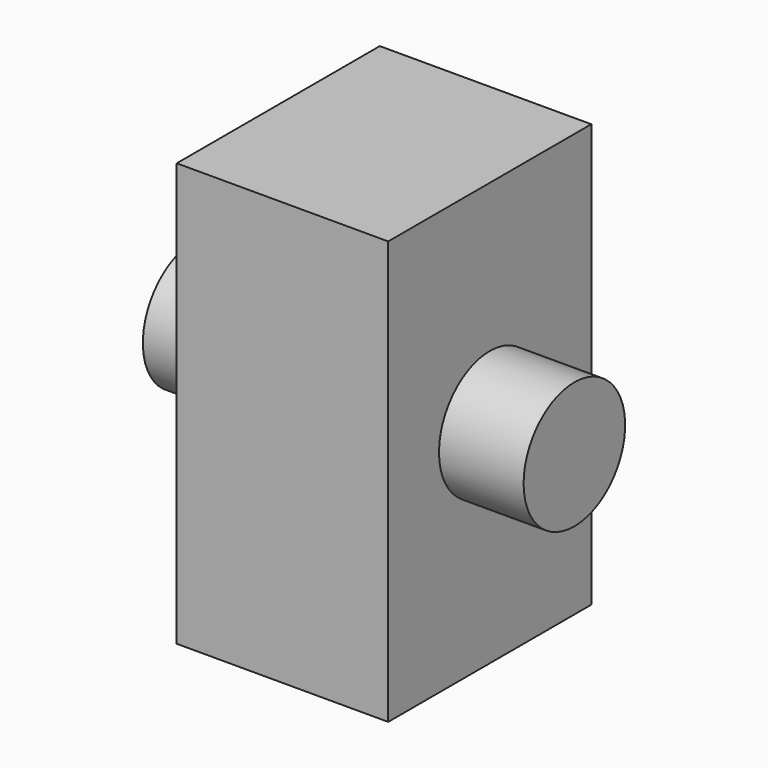
from build123d import *

# Parameters (mm, degrees)
F0_W     = 6.35
F0_H     = 7.62
F1_DEPTH = 12.7
F3_DEPTH = 2.54
F5_DEPTH = 2.54


with BuildPart() as f1:
    # F0 (on Top) → F1 (new body)
    with BuildSketch(Plane.XY):
        with Locations((3.175, -3.81)):
            Rectangle(F0_W, F0_H)
    extrude(amount=F1_DEPTH)

    # F2 (on face) → F3 (join)
    with BuildSketch(Plane.YZ.offset(6.35)):
        with BuildLine():
            Line((-5.715, 6.35), (-3.81, 6.35))
            Line((-3.81, 6.35), (-1.905, 6.35))
            ThreePointArc((-1.905, 6.35), (-3.81, 8.255), (-5.715, 6.35))
        make_face()
        with BuildLine():
            Line((-1.905, 6.35), (-3.81, 6.35))
            Line((-3.81, 6.35), (-5.715, 6.35))
            ThreePointArc((-5.715, 6.35), (-3.81, 4.445), (-1.905, 6.35))
        make_face()
    extrude(amount=F3_DEPTH)

    # F4 (on face) → F5 (join)
    with BuildSketch(Plane(origin=(0, 0, 0), x_dir=(0, -1, 0), z_dir=(-1, 0, 0))):
        with BuildLine():
            Line((1.905, 6.35), (3.81, 6.35))
            Line((3.81, 6.35), (5.715, 6.35))
            ThreePointArc((5.715, 6.35), (3.81, 8.255), (1.905, 6.35))
        make_face()
        with BuildLine():
            Line((5.715, 6.35), (3.81, 6.35))
            Line((3.81, 6.35), (1.905, 6.35))
            ThreePointArc((1.905, 6.35), (3.81, 4.445), (5.715, 6.35))
        make_face()
    extrude(amount=F5_DEPTH)


solid = f1.part
